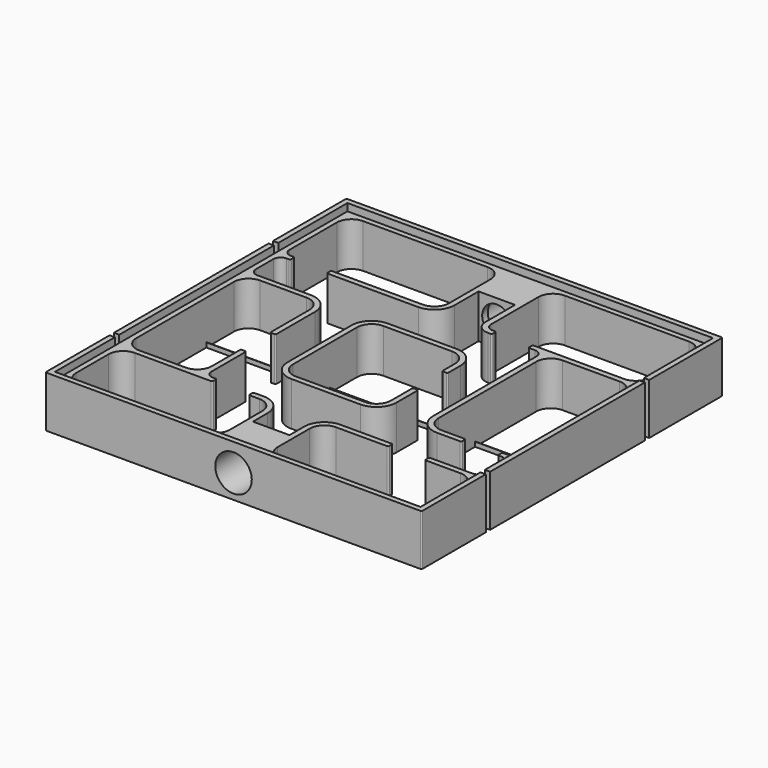
from build123d import *

# Parameters (mm, degrees)
SKETCH_W            = 100.2
SKETCH_H            = 0.1
PAD_DEPTH           = 1.25
SKETCH001_W         = 100.2
SKETCH001_H         = 100.2
PAD001_DEPTH        = 12
PAD002_DEPTH        = 12
SKETCH003_W         = 103
SKETCH003_H         = 103
SKETCH003_W_2       = 100.1
SKETCH003_H_2       = 100.1
PAD003_DEPTH        = 14
FILLET_R            = 4
FILLET001_R         = 2
FILLET002_R         = 5.5
FILLET003_R         = 3.5
FILLET004_R         = 0.35
HOLE_D              = 8
HOLE_DEPTH          = 25
HOLE_CBORE_D        = 10
HOLE_CBORE_DEPTH    = 11
HOLE001_D           = 8
HOLE001_DEPTH       = 25
HOLE001_CBORE_D     = 10
HOLE001_CBORE_DEPTH = 11
SKETCH006_W         = 1.45
SKETCH006_H         = 1.5
POCKET_DEPTH        = 20


with BuildPart() as part:
    # Sketch → Pad (new body)
    with BuildSketch(Plane.XY):
        with Locations((50.1, 50.1)):
            Rectangle(SKETCH_W, SKETCH_H)
    extrude(amount=PAD_DEPTH)

    # Sketch001 → Pad001 (join)
    with BuildSketch(Plane.XY):
        with Locations((50.1, 50.1)):
            Rectangle(SKETCH001_W, SKETCH001_H)
        Polygon((1.5, 98.7), (43.599601, 98.7), (43.599601, 76.487582), (14.5, 76.487582), (14.5, 74.987582), (45.099601, 74.987582), (45.099601, 88.7), (55.099601, 88.7), (55.099601, 74.987582), (59.712762, 74.987582), (59.712762, 76.487582), (56.712762, 76.487582), (56.712762, 98.7), (98.7, 98.7), (98.7, 76.487582), (69.712762, 76.487582), (69.712762, 74.987582), (73.571065, 74.987582), (73.571065, 32.056547), (85.7, 32.056547), (85.7, 33.556547), (75.071065, 33.556547), (75.071065, 74.987582), (98.7, 74.987582), (98.7, 33.556547), (95.7, 33.556547), (95.7, 32.056547), (98.7, 32.056547), (98.7, 22.056547), (84.919623, 22.056547), (84.919623, 20.556547), (98.7, 20.556547), (98.7, 1.5), (56.599601, 1.5), (56.599601, 20.556547), (74.919623, 20.556547), (74.919623, 22.056547), (55.099601, 22.056547), (55.099601, 11.5), (45.099601, 11.5), (45.099601, 22.056547), (36.707095, 22.056547), (36.707095, 20.556547), (43.599601, 20.556547), (43.599601, 1.5), (1.5, 1.5), (1.5, 20.556547), (26.707095, 20.556547), (26.707095, 22.056547), (23.707095, 22.056547), (23.707095, 35.990676), (22.207095, 35.990676), (22.207095, 22.056547), (1.5, 22.056547), (1.5, 63.487582), (22.207095, 63.487582), (22.207095, 45.990676), (23.707095, 45.990676), (23.707095, 64.987582), (1.5, 64.987582), (1.5, 74.987582), (4.5, 74.987582), (4.5, 76.487582), (1.5, 76.487582), align=None, mode=Mode.SUBTRACT)
    extrude(amount=PAD001_DEPTH)

    # Sketch002 → Pad002 (join)
    with BuildSketch(Plane.XY):
        Polygon((33.707095, 32.056547), (63.571065, 32.056547), (63.571065, 45.014029), (62.071065, 45.014029), (62.071065, 33.556547), (35.207095, 33.556547), (35.207095, 63.487582), (62.071065, 63.487582), (62.071065, 55.014029), (63.571065, 55.014029), (63.571065, 64.987582), (33.707095, 64.987582), align=None)
    extrude(amount=PAD002_DEPTH)

    # Sketch003 → Pad003 (join)
    with BuildSketch(Plane.XY):
        with Locations((50.1, 50.1)):
            Rectangle(SKETCH003_W, SKETCH003_H)
        with Locations((50.1, 50.1)):
            Rectangle(SKETCH003_W_2, SKETCH003_H_2, mode=Mode.SUBTRACT)
    extrude(amount=PAD003_DEPTH)

    # Fillet
    fillet_edges = [part.edges().sort_by_distance(p)[0] for p in [
        (1.5, 98.7, 6),
        (98.7, 98.7, 6),
        (43.599601, 98.7, 6),
        (98.7, 74.987582, 6),
        (22.207095, 63.487582, 6),
        (62.071065, 63.487582, 6),
        (43.599601, 20.556547, 6),
        (98.7, 20.556547, 6),
        (56.712762, 98.7, 6),
        (75.071065, 74.987582, 6),
        (1.5, 63.487582, 6),
        (35.207095, 63.487582, 6),
        (1.5, 20.556547, 6),
        (56.599601, 20.556547, 6),
        (22.207095, 22.056547, 6),
        (98.7, 1.5, 6),
        (43.599601, 1.5, 6),
        (62.071065, 33.556547, 6),
        (98.7, 76.487582, 6),
        (43.599601, 76.487582, 6),
        (1.5, 22.056547, 6),
        (1.5, 1.5, 6),
        (56.599601, 1.5, 6),
        (35.207095, 33.556547, 6),
        (75.071065, 33.556547, 6),
    ]]
    fillet(fillet_edges, radius=FILLET_R)

    # Fillet001
    fillet001_edges = [part.edges().sort_by_distance(p)[0] for p in [
        (56.712762, 76.487582, 6),
        (1.5, 76.487582, 6),
        (1.5, 64.987582, 6),
        (23.707095, 22.056547, 6),
        (98.7, 22.056547, 6),
        (98.7, 33.556547, 6),
        (98.7, 32.056547, 6),
        (73.571065, 74.987582, 6),
        (1.5, 74.987582, 6),
    ]]
    fillet(fillet001_edges, radius=FILLET001_R)

    # Fillet002
    fillet002_edges = [part.edges().sort_by_distance(p)[0] for p in [
        (73.571065, 32.056547, 6),
        (33.707095, 32.056547, 6),
        (63.571065, 32.056547, 6),
        (45.099601, 74.987582, 6),
        (23.707095, 64.987582, 6),
        (45.099601, 22.056547, 6),
        (55.099601, 22.056547, 6),
        (63.571065, 64.987582, 6),
        (33.707095, 64.987582, 6),
    ]]
    fillet(fillet002_edges, radius=FILLET002_R)

    # Fillet003
    fillet003_edges = [part.edges().sort_by_distance(p)[0] for p in [
        (55.099601, 74.987582, 6),
    ]]
    fillet(fillet003_edges, radius=FILLET003_R)

    # Fillet004
    fillet004_edges = [part.edges().sort_by_distance(p)[0] for p in [
        (59.712762, 74.987582, 6),
        (59.712762, 76.487582, 6),
        (4.5, 76.487582, 6),
        (4.5, 74.987582, 6),
        (26.707095, 20.556547, 6),
        (26.707095, 22.056547, 6),
        (74.919623, 20.556547, 6),
        (74.919623, 22.056547, 6),
        (85.7, 32.056547, 6),
        (85.7, 33.556547, 6),
        (69.712762, 74.987582, 6),
        (69.712762, 76.487582, 6),
        (14.5, 76.487582, 6),
        (14.5, 74.987582, 6),
        (95.7, 33.556547, 6),
        (95.7, 32.056547, 6),
        (84.919623, 22.056547, 6),
        (84.919623, 20.556547, 6),
        (36.707095, 22.056547, 6),
        (36.707095, 20.556547, 6),
        (22.207095, 35.990676, 6),
        (23.707095, 35.990676, 6),
        (62.071065, 45.014029, 6),
        (63.571065, 45.014029, 6),
        (22.207095, 45.990676, 6),
        (23.707095, 45.990676, 6),
        (62.071065, 55.014029, 6),
        (63.571065, 55.014029, 6),
        (101.6, 101.6, 7),
        (-1.4, 101.6, 7),
        (-1.4, -1.4, 7),
        (101.6, -1.4, 7),
    ]]
    fillet(fillet004_edges, radius=FILLET004_R)

    # Hole
    with Locations(Plane(origin=(0, 101.6, 0), x_dir=(-1, 0, 0), z_dir=(0, 1, 0))):
        with Locations((-50.1, 6.5)):
            CounterBoreHole(HOLE_D / 2, HOLE_CBORE_D / 2, HOLE_CBORE_DEPTH, depth=HOLE_DEPTH)

    # Hole001
    with Locations(Plane.XZ.offset(1.4)):
        with Locations((50.1, 6.5)):
            CounterBoreHole(HOLE001_D / 2, HOLE001_CBORE_D / 2, HOLE001_CBORE_DEPTH, depth=HOLE001_DEPTH)

    # Sketch006 → Pocket (cut)
    with BuildSketch(Plane.XY):
        with Locations((100.875, 21.306547)):
            Rectangle(SKETCH006_W, SKETCH006_H)
        with Locations((100.875, 75.737582)):
            Rectangle(SKETCH006_W, SKETCH006_H)
        with Locations((-0.675, 75.737582)):
            Rectangle(SKETCH006_W, SKETCH006_H)
        with Locations((-0.675, 21.306547)):
            Rectangle(SKETCH006_W, SKETCH006_H)
    extrude(amount=POCKET_DEPTH, mode=Mode.SUBTRACT)


solid = part.part
